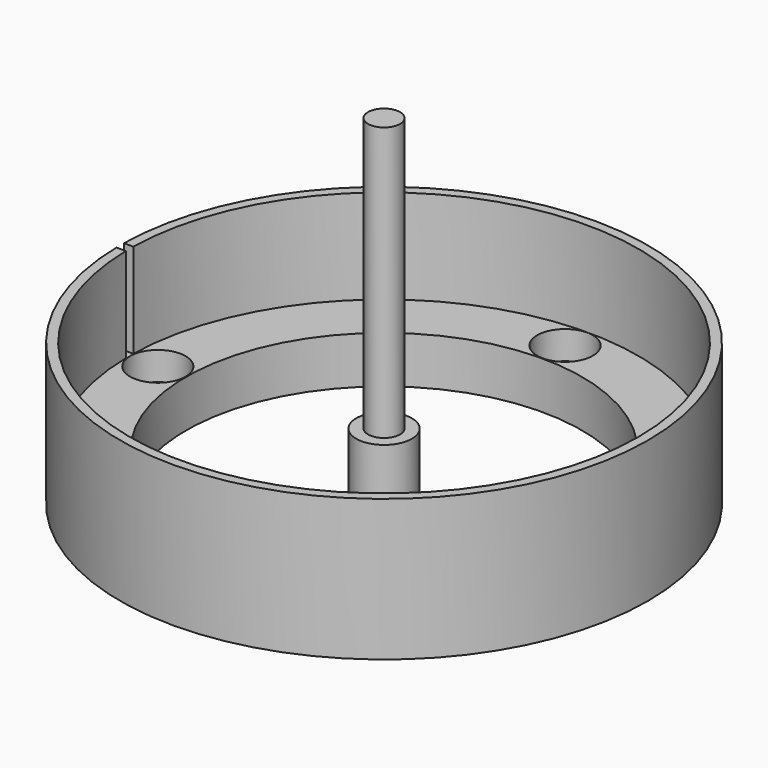
from build123d import *

# Parameters (mm, degrees)
CYLINDER_R               = 2.95
CYLINDER_DEPTH           = 7
CYLINDER001_R            = 1.7
CYLINDER001_DEPTH        = 30
BOX260_W                 = 10
BOX260_H                 = 1
BOX260_DEPTH             = 11
CLONE359_PLACEMENT_ANGLE = 180
ARRAY018_COUNT           = 4


with BuildPart() as m3bolthead:
    # Cylinder → Cylinder (new body)
    with BuildSketch(Plane.XY):
        Circle(CYLINDER_R)
    extrude(amount=CYLINDER_DEPTH)


with BuildPart() as m3bolt:
    # Cylinder001 → Cylinder001 (new body)
    with BuildSketch(Plane.XY.offset(6)):
        Circle(CYLINDER001_R)
    extrude(amount=CYLINDER001_DEPTH)

    # Fusion: union M3BoltHead
    add(m3bolthead.part)


with BuildPart() as cube023:
    # Box260 → Box260 (new body)
    with BuildSketch(Plane(origin=(-33.5, -0.5, 5), x_dir=(1, 0, 0), z_dir=(0, 0, 1))):
        with Locations((5, 0.5)):
            Rectangle(BOX260_W, BOX260_H)
    extrude(amount=BOX260_DEPTH)


with BuildPart() as array018:
    # Clone359 base: copy of M3Bolt
    add(m3bolt.part)


with BuildPart() as array018_1:
    # Clone359 placement: moved
    add(array018.part.moved(Location((24, 0, 9))).rotate(Axis((24, 0, 9), (0, 1, 0)), CLONE359_PLACEMENT_ANGLE))

    # Array018: Array018 ×4 about axis
    array018_axis = Axis((0, 0, 0), (0, 0, 1))


with BuildPart() as array018_2:
    add(array018_1.part)
    for i in range(1, ARRAY018_COUNT):
        add(array018_1.part.rotate(array018_axis, i * 360 / ARRAY018_COUNT))


with BuildPart() as obj1:
    # Sketch071 → Revolution017 (revolve)
    with BuildSketch(Plane.XZ):
        Polygon((27, 15), (28, 15), (28, 0), (21, 0), (21, 5), (27, 5), align=None)
    revolve(axis=Axis((0, 0, 0), (0, 0, 1)))

    # Cut114: cut Array018
    add(array018_2.part, mode=Mode.SUBTRACT)

    # Cut115: cut Cube023
    add(cube023.part, mode=Mode.SUBTRACT)


solid = Compound([m3bolt.part, obj1.part])
